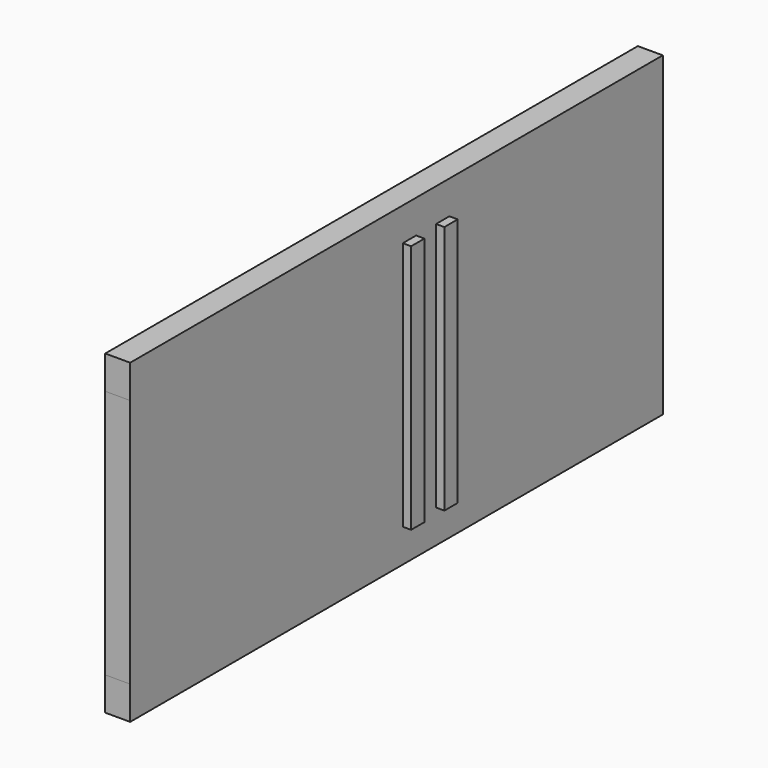
from build123d import *

# Parameters (mm, degrees)
F0_W     = 12.7
F0_H     = 190.5
F1_DEPTH = 6.35
F0_W_2   = 259.999907
F0_W_3   = 19.05
F2_DEPTH = 19.05


with BuildPart() as f1:
    # F0 (on Right) → F1 (new body)
    with BuildSketch(Plane.YZ):
        with Locations((12.349907, 0)):
            Rectangle(F0_W, F0_H)
        with Locations((44.099907, 0)):
            Rectangle(F0_W, F0_H)
    extrude(amount=F1_DEPTH)


with BuildPart() as f2:
    # F0 (on Right) → F2 (new body)
    with BuildSketch(Plane.YZ):
        Polygon((50.449907, -95.25), (254, -95.25), (254, 120.65), (-254, 120.65), (-254, 95.25), (5.999907, 95.25), (18.699907, 95.25), (37.749907, 95.25), (50.449907, 95.25), align=None)
        with Locations((-124.000046, 0)):
            Rectangle(F0_W_2, F0_H)
        Polygon((-254, -120.65), (254, -120.65), (254, -95.25), (50.449907, -95.25), (37.749907, -95.25), (18.699907, -95.25), (5.999907, -95.25), (-254, -95.25), align=None)
        with Locations((12.349907, 0)):
            Rectangle(F0_W, F0_H)
        with Locations((28.224907, 0)):
            Rectangle(F0_W_3, F0_H)
        with Locations((44.099907, 0)):
            Rectangle(F0_W, F0_H)
    extrude(amount=-F2_DEPTH)


solid = Compound([f1.part, f2.part])
